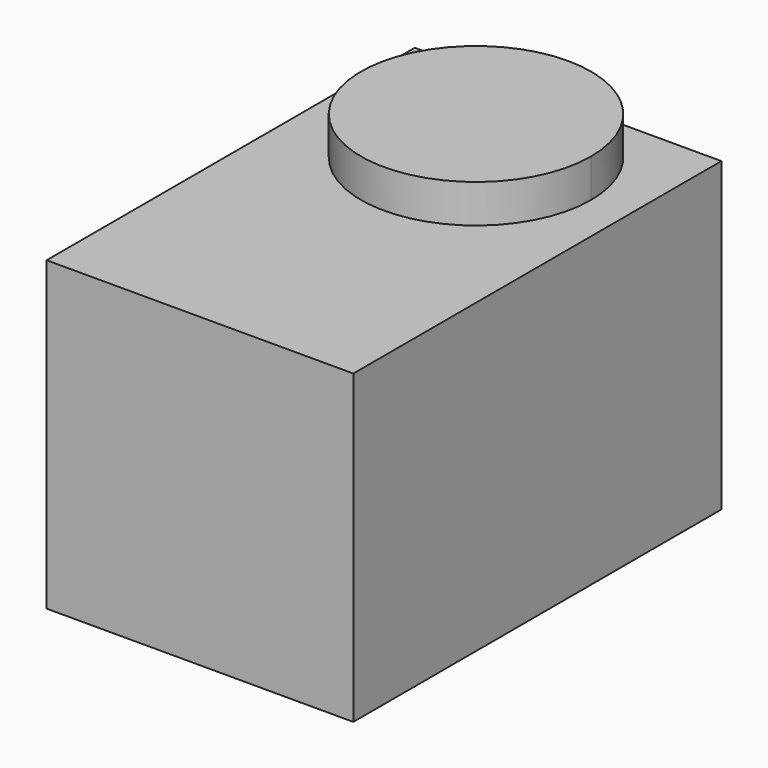
from build123d import *

# Parameters (mm, degrees)
F1_DEPTH = 24
F2_DEPTH = 3


with BuildPart() as f1:
    # F0 (on Top) → F1 (new body)
    with BuildSketch(Plane.XY):
        Polygon((1.3061994687, 22.877714643), (-10.6938005313, 22.877714643), (-10.6938005313, -13.122285357), (13.3061994687, -13.122285357), (13.3061994687, 22.877714643), align=None)
        with BuildLine():
            ThreePointArc((10.3061994687, 13.877714643), (-5.057761562, 7.5137536123), (1.3061994687, 22.877714643))
            ThreePointArc((1.3061994687, 22.877714643), (7.6701604994, 20.2416756737), (10.3061994687, 13.877714643))
        make_face(mode=Mode.SUBTRACT)
        with BuildLine():
            ThreePointArc((10.3061994687, 13.877714643), (7.6701604994, 20.2416756737), (1.3061994687, 22.877714643))
            ThreePointArc((1.3061994687, 22.877714643), (-5.057761562, 7.5137536123), (10.3061994687, 13.877714643))
        make_face()
    extrude(amount=-F1_DEPTH)

    # F0 (on Top) → F2 (join)
    with BuildSketch(Plane.XY):
        with BuildLine():
            ThreePointArc((10.3061994687, 13.877714643), (7.6701604994, 20.2416756737), (1.3061994687, 22.877714643))
            ThreePointArc((1.3061994687, 22.877714643), (-5.057761562, 7.5137536123), (10.3061994687, 13.877714643))
        make_face()
    extrude(amount=F2_DEPTH)


solid = f1.part
